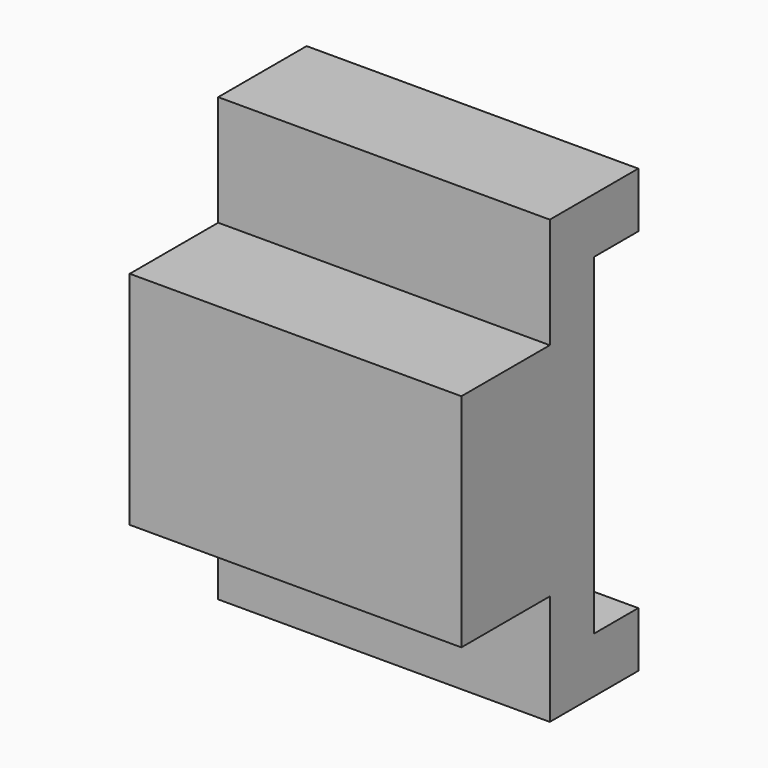
from build123d import *

# Parameters (mm, degrees)
F0_W     = 60
F0_H     = 40
F1_DEPTH = 30
F0_H_2   = 10
F2_DEPTH = 10
F3_DEPTH = 10


with BuildPart() as f1:
    # F0 (on Front) → F1 (new body)
    with BuildSketch(Plane.XZ):
        with Locations((-6.656924, 4.44919)):
            Rectangle(F0_W, F0_H)
    extrude(amount=F1_DEPTH)

    # F0 (on Front) → F2 (join)
    with BuildSketch(Plane.XZ):
        with Locations((-6.656924, 29.44919)):
            Rectangle(F0_W, F0_H_2)
        with Locations((-6.656924, -20.55081)):
            Rectangle(F0_W, F0_H_2)
        with Locations((-6.656924, 39.44919)):
            Rectangle(F0_W, F0_H_2)
        with Locations((-6.656924, -30.55081)):
            Rectangle(F0_W, F0_H_2)
    extrude(amount=F2_DEPTH)

    # F0 (on Front) → F3 (join)
    with BuildSketch(Plane.XZ):
        with Locations((-6.656924, -30.55081)):
            Rectangle(F0_W, F0_H_2)
        with Locations((-6.656924, 39.44919)):
            Rectangle(F0_W, F0_H_2)
    extrude(amount=-F3_DEPTH)


solid = f1.part
